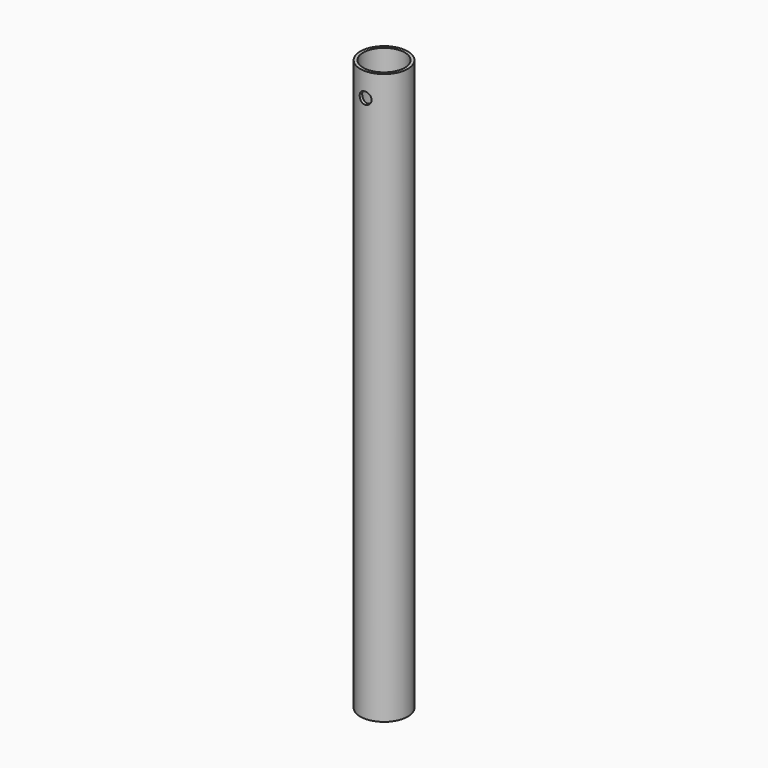
from build123d import *

# Parameters (mm, degrees)
F0_R     = 6.35
F0_R_2   = 5.5372
F1_DEPTH = 152.4
F3_DEPTH = 25.4


with BuildPart() as f1:
    # F0 (on Top) → F1 (new body)
    with BuildSketch(Plane.XY):
        Circle(F0_R)
        Circle(F0_R_2, mode=Mode.SUBTRACT)
    extrude(amount=-F1_DEPTH)

    # F2 (on Front) → F3 (cut)
    with BuildSketch(Plane.XZ):
        with BuildLine():
            ThreePointArc((0, -4.7625), (-1.122532, -7.472532), (1.5875, -6.35))
            ThreePointArc((1.5875, -6.35), (1.122532, -5.227468), (0, -4.7625))
        make_face()
    extrude(amount=F3_DEPTH, mode=Mode.SUBTRACT)


solid = f1.part
